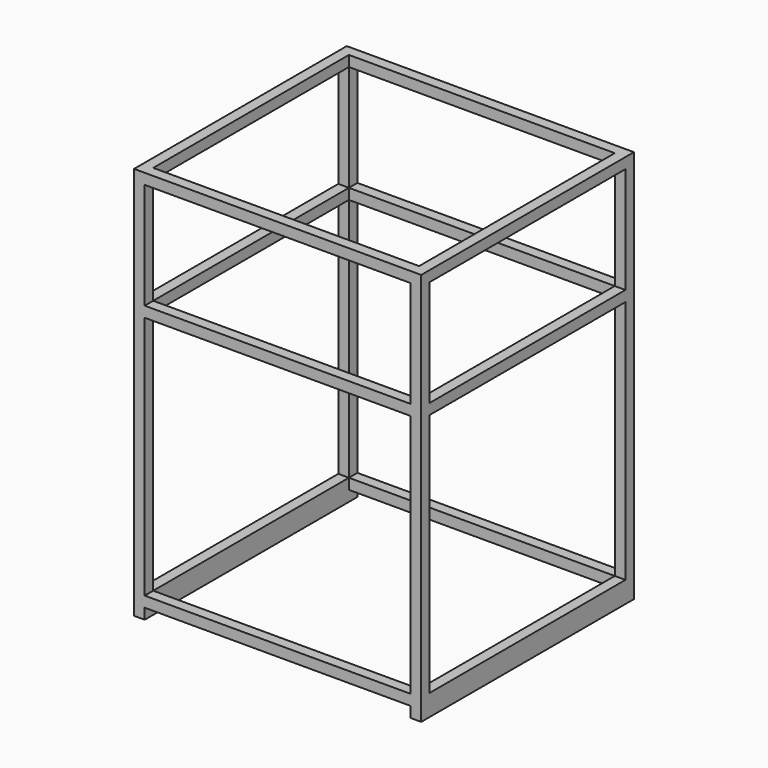
from build123d import *

# Parameters (mm, degrees)
F0_W          = 540
F0_H          = 500
F1_DEPTH      = 700
F1_DEPTH_BACK = 40
F2_W          = 500
F2_H          = 20
F3_DEPTH      = 500.001
F4_W          = 500
F4_H          = 200
F5_DEPTH      = 500.001
F6_W          = 460
F6_H          = 200
F7_DEPTH      = 540.001
F8_W          = 500
F8_H          = 460
F9_DEPTH      = 740.001
F10_W         = 500
F10_H         = 460
F11_DEPTH     = 500.001
F12_W         = 460
F12_H         = 460
F13_DEPTH     = 540.001


with BuildPart() as f1:
    # F0 (on Top) → F1 (new body, two sides)
    with BuildSketch(Plane.XY) as f1_sk:
        Rectangle(F0_W, F0_H)
    extrude(amount=F1_DEPTH)
    extrude(f1_sk.sketch, amount=-F1_DEPTH_BACK)

    # F2 (on face) → F3 (cut, through all)
    with BuildSketch(Plane.XZ.offset(250)):
        with Locations((0, -30)):
            Rectangle(F2_W, F2_H)
    extrude(amount=-F3_DEPTH, mode=Mode.SUBTRACT)

    # F4 (on face) → F5 (cut, through all)
    with BuildSketch(Plane.XZ.offset(250)):
        with Locations((0, 580)):
            Rectangle(F4_W, F4_H)
    extrude(amount=-F5_DEPTH, mode=Mode.SUBTRACT)

    # F6 (on face) → F7 (cut, through all)
    with BuildSketch(Plane(origin=(-270, 0, 0), x_dir=(0, -1, 0), z_dir=(-1, 0, 0))):
        with Locations((0, 580)):
            Rectangle(F6_W, F6_H)
    extrude(amount=-F7_DEPTH, mode=Mode.SUBTRACT)

    # F8 (on face) → F9 (cut, through all)
    with BuildSketch(Plane.XY.offset(700)):
        Rectangle(F8_W, F8_H)
    extrude(amount=-F9_DEPTH, mode=Mode.SUBTRACT)

    # F10 (on face) → F11 (cut, through all)
    with BuildSketch(Plane(origin=(0, 250, 0), x_dir=(-1, 0, 0), z_dir=(0, 1, 0))):
        with Locations((0, 230)):
            Rectangle(F10_W, F10_H)
    extrude(amount=-F11_DEPTH, mode=Mode.SUBTRACT)

    # F12 (on face) → F13 (cut, through all)
    with BuildSketch(Plane(origin=(-270, 0, 0), x_dir=(0, -1, 0), z_dir=(-1, 0, 0))):
        with Locations((0, 230)):
            Rectangle(F12_W, F12_H)
    extrude(amount=-F13_DEPTH, mode=Mode.SUBTRACT)


solid = f1.part
